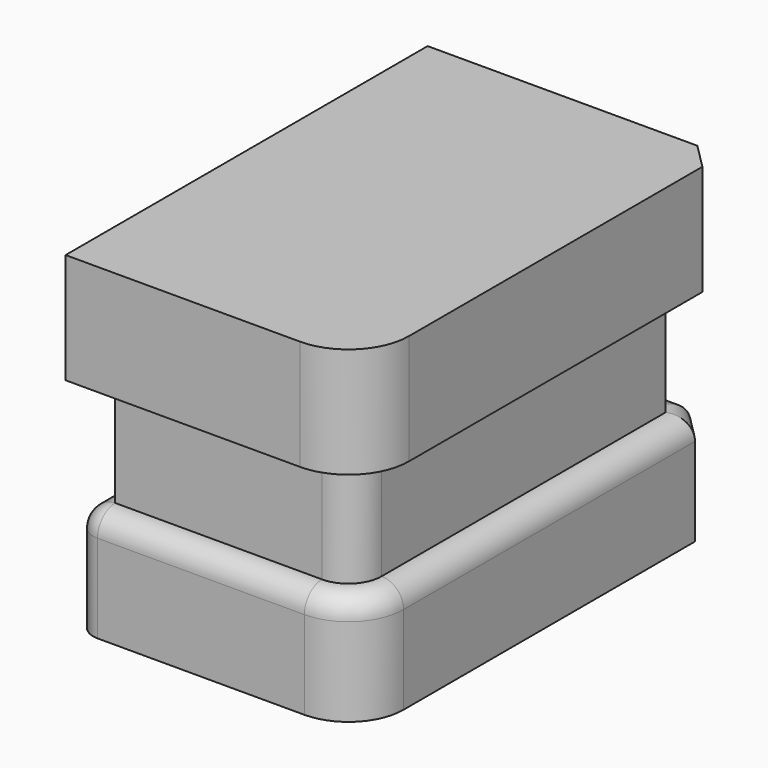
from build123d import *

# Parameters (mm, degrees)
F0_W     = 65.419092
F0_H     = 101.706258
F1_DEPTH = 25.4
F2_SIZE  = 5.08
F3_R     = 5.08
F4_R     = 12.7
F5_R     = 5.08
F6_DEPTH = 25.4
F8_DEPTH = 25.4


with BuildPart() as f1:
    # F0 (on Top) → F1 (new body)
    with BuildSketch(Plane.XY):
        Rectangle(F0_W, F0_H)
    extrude(amount=F1_DEPTH)

    # F2
    f2_edges = [f1.edges().sort_by_distance(p)[0] for p in [
        (32.709546, 50.853129, 12.7),
    ]]
    chamfer(f2_edges, length=F2_SIZE)

    # F3
    f3_edges = [f1.edges().sort_by_distance(p)[0] for p in [
        (-32.709546, -50.853129, 12.7),
    ]]
    fillet(f3_edges, radius=F3_R)

    # F4
    f4_edges = [f1.edges().sort_by_distance(p)[0] for p in [
        (32.709546, -50.853129, 12.7),
    ]]
    fillet(f4_edges, radius=F4_R)

    # F5
    f5_edges = [f1.edges().sort_by_distance(p)[0] for p in [
        (32.709546, 3.81, 25.4),
        (-3.81, -50.853129, 25.4),
        (28.989803, -47.133386, 25.4),
        (-31.221649, -49.365232, 25.4),
        (-32.709546, 2.54, 25.4),
        (30.169546, 48.313129, 25.4),
        (-2.54, 50.853129, 25.4),
    ]]
    fillet(f5_edges, radius=F5_R)

    # F1_face (on face) → F6 (join)
    with BuildSketch(Plane(origin=(-0.075869, 0.08909, 25.4), x_dir=(1, 0, 0), z_dir=(0, 0, 1))):
        with BuildLine():
            Line((-27.553677, 45.68404), (-27.553677, -45.862219))
            Line((-27.553677, -45.862219), (20.085415, -45.862219))
            ThreePointArc((20.085415, -45.862219), (25.473569, -43.630373), (27.705415, -38.242219))
            Line((27.705415, -38.242219), (27.705415, 43.579835))
            Line((27.705415, 43.579835), (25.60121, 45.68404))
            Line((25.60121, 45.68404), (-27.553677, 45.68404))
        make_face()
    extrude(amount=F6_DEPTH)

    # F7 (on face) → F8 (join)
    with BuildSketch(Plane.XY.offset(50.8)):
        with BuildLine():
            Line((28.155598, 52.123129), (-33.979546, 52.123129))
            Line((-33.979546, 52.123129), (-33.979546, -52.123129))
            Line((-33.979546, -52.123129), (20.009546, -52.123129))
            ThreePointArc((20.009546, -52.123129), (29.887828, -48.031411), (33.979546, -38.153129))
            Line((33.979546, -38.153129), (33.979546, 46.299181))
            Line((33.979546, 46.299181), (28.155598, 52.123129))
        make_face()
    extrude(amount=F8_DEPTH)


solid = f1.part
